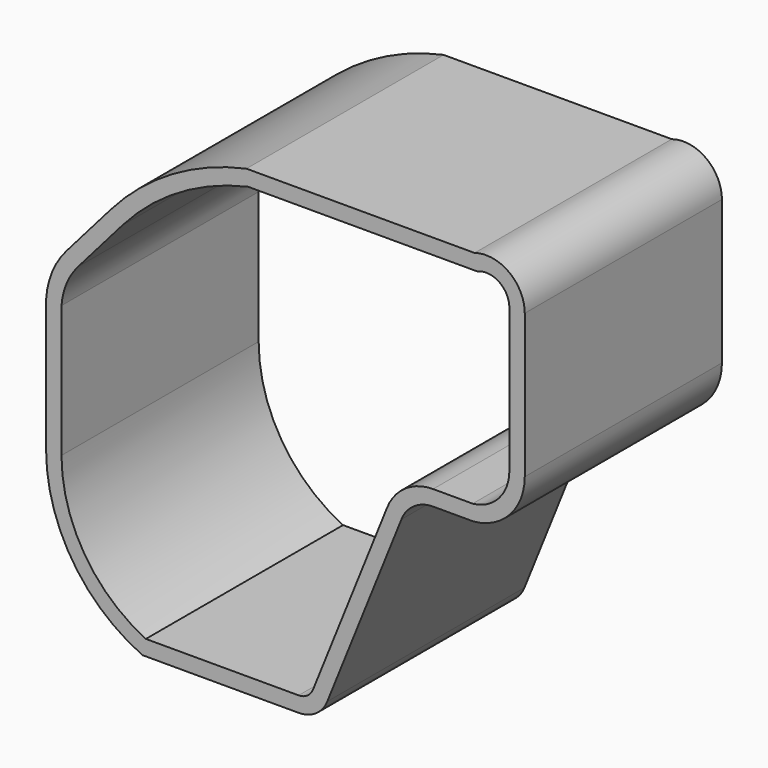
from build123d import *

# Parameters (mm, degrees)
F2_DEPTH = 80


with BuildPart() as f2:
    # F1 (on Front) → F2 (new body)
    with BuildSketch(Plane.XZ):
        with BuildLine():
            Line((53.708869, 58.652591), (-20.343769, 58.652591))
            ThreePointArc((-20.343769, 58.652591), (-44.450858, 49.238357), (-64.352764, 32.694669))
            Line((-64.352764, 32.694669), (-78.769962, 16.146123))
            ThreePointArc((-78.769962, 16.146123), (-83.380683, 8.703497), (-85.381356, 0.180074))
            Line((-85.381356, 0.180074), (-85.381356, -18.964757))
            Line((-85.381356, -18.964757), (-85.381356, -27.74426))
            Line((-85.381356, -27.74426), (-85.381356, -42.812468))
            ThreePointArc((-85.381356, -42.812468), (-76.882861, -71.684144), (-54.097907, -91.347409))
            Line((-54.097907, -91.347409), (-3.37888, -91.347409))
            ThreePointArc((-3.37888, -91.347409), (2.220265, -89.632913), (5.899467, -85.077324))
            Line((5.899467, -85.077324), (29.971278, -25.197507))
            ThreePointArc((29.971278, -25.197507), (34.031111, -20.115779), (40.247023, -18.200413))
            Line((40.247023, -18.200413), (53.314275, -18.200413))
            ThreePointArc((53.314275, -18.200413), (65.197284, -12.345732), (70, 0))
            Line((70, 0), (70, 46.718062))
            ThreePointArc((70, 46.718062), (64.880118, 56.815512), (53.708869, 58.652591))
        make_face()
        with BuildLine():
            Line((-80.381356, -27.74426), (-80.381356, -18.964757))
            Line((-80.381356, -18.964757), (-80.381356, 0))
            ThreePointArc((-80.381356, 0), (-78.729835, 6.865639), (-75, 12.861708))
            Line((-75, 12.861708), (-60.582802, 29.410253))
            ThreePointArc((-60.582802, 29.410253), (-42.135599, 44.798489), (-19.803964, 53.652591))
            Line((-19.803964, 53.652591), (54.581497, 53.652591))
            ThreePointArc((54.581497, 53.652591), (61.648024, 52.975716), (65, 46.718062))
            Line((65, 46.718062), (65, 0))
            ThreePointArc((65, 0), (61.57895, -8.892994), (53.079829, -13.200413))
            Line((53.079829, -13.200413), (40.247023, -13.200413))
            ThreePointArc((40.247023, -13.200413), (31.224904, -15.977511), (25.326131, -23.347409))
            Line((25.326131, -23.347409), (1.260294, -83.212366))
            ThreePointArc((1.260294, -83.212366), (-0.579308, -85.490161), (-3.37888, -86.347409))
            Line((-3.37888, -86.347409), (-52.989315, -86.347409))
            ThreePointArc((-52.989315, -86.347409), (-72.963659, -68.530239), (-80.381356, -42.812468))
            Line((-80.381356, -42.812468), (-80.381356, -27.74426))
        make_face(mode=Mode.SUBTRACT)
    extrude(amount=F2_DEPTH)


solid = f2.part
